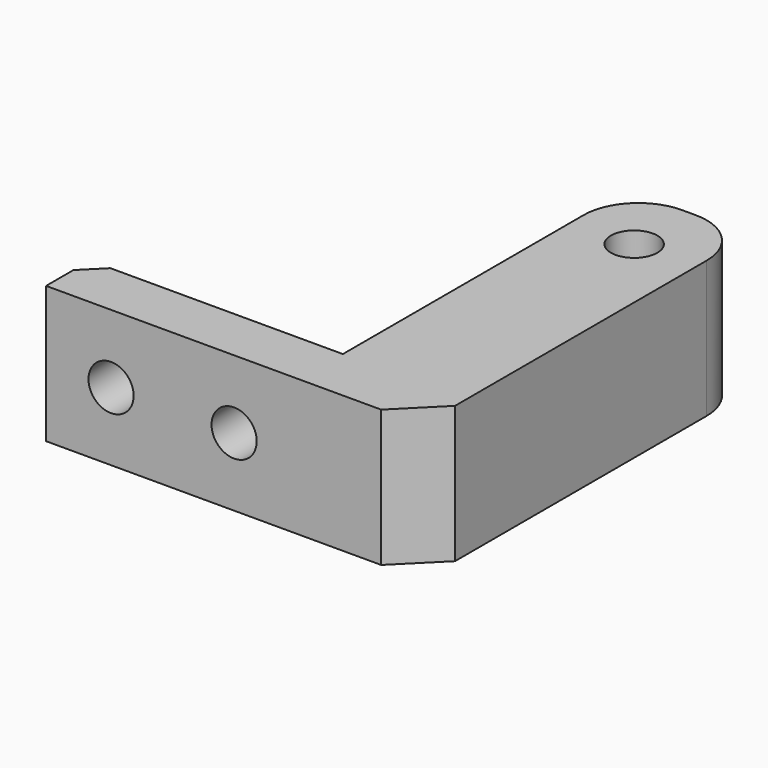
from build123d import *

# Parameters (mm, degrees)
PAD_DEPTH       = 5
CHAMFER_SIZE    = 3
SKETCH001_R     = 1.65
POCKET_DEPTH    = 5
FILLET_R        = 4
SKETCH002_R     = 1.7
POCKET001_DEPTH = 10.001
CHAMFER001_SIZE = 1.5


with BuildPart() as part:
    # Sketch → Pad (new body, symmetric)
    with BuildSketch(Plane.XY):
        Polygon((-27.5, 0), (0, 0), (0, 30), (-9, 30), (-9, 4), (-27.5, 4), align=None)
    extrude(amount=PAD_DEPTH, both=True)

    # Chamfer
    chamfer_edges = [part.edges().sort_by_distance(p)[0] for p in [
        (0, 0, 0),
    ]]
    chamfer(chamfer_edges, length=CHAMFER_SIZE)

    # Sketch001 (on Face7 of Chamfer) → Pocket (cut)
    with BuildSketch(Plane(origin=(0, 4, 0), x_dir=(-1, 0, 0), z_dir=(0, 1, 0))):
        with Locations((22.75, 0)):
            Circle(SKETCH001_R)
        with Locations((13.75, 0)):
            Circle(SKETCH001_R)
    extrude(amount=-POCKET_DEPTH, mode=Mode.SUBTRACT)

    # Fillet
    fillet_edges = [part.edges().sort_by_distance(p)[0] for p in [
        (-9, 30, 0),
        (0, 30, 0),
    ]]
    fillet(fillet_edges, radius=FILLET_R)

    # Sketch002 (on Face11 of Fillet) → Pocket001 (cut, through all)
    with BuildSketch(Plane.XY.offset(5)):
        with Locations((-4.5, 25)):
            Circle(SKETCH002_R)
    extrude(amount=-POCKET001_DEPTH, mode=Mode.SUBTRACT)

    # Chamfer001
    chamfer001_edges = [part.edges().sort_by_distance(p)[0] for p in [
        (-27.5, 4, 0),
    ]]
    chamfer(chamfer001_edges, length=CHAMFER001_SIZE)


solid = part.part
